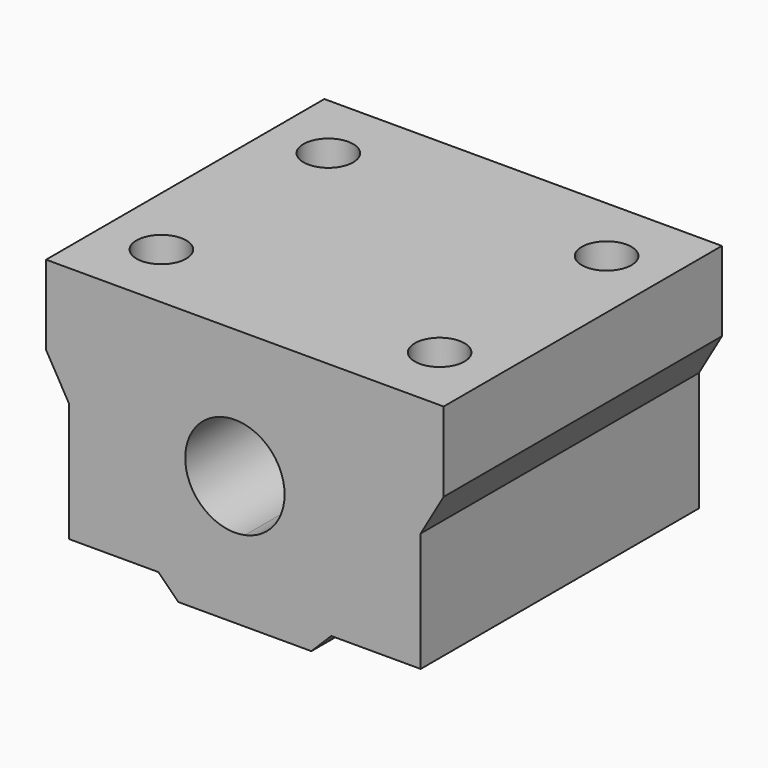
from build123d import *

# Parameters (mm, degrees)
F1_DEPTH = 35
F2_R     = 2.5
F3_DEPTH = 25.4


with BuildPart() as f1:
    # F0 (on Front) → F1 (new body)
    with BuildSketch(Plane.XZ):
        with BuildLine():
            Line((0, -13), (6.690599, -13))
            Line((6.690599, -13), (8.690599, -11))
            Line((8.690599, -11), (17.690599, -11))
            Line((17.690599, -11), (17.690599, 1))
            Line((17.690599, 1), (20, 5))
            Line((20, 5), (20, 13))
            Line((20, 13), (0, 13))
            Line((0, 13), (0, 4.898979))
            ThreePointArc((0, 4.898979), (2.872983, 3.162278), (4, 0))
            ThreePointArc((4, 0), (2.872983, -3.162278), (0, -4.898979))
            Line((0, -4.898979), (0, -13))
        make_face()
        with BuildLine():
            Line((-6.690599, -13), (0, -13))
            Line((0, -13), (0, -4.898979))
            ThreePointArc((0, -4.898979), (-6, 0), (0, 4.898979))
            Line((0, 4.898979), (0, 13))
            Line((0, 13), (-20, 13))
            Line((-20, 13), (-20, 5))
            Line((-20, 5), (-17.690599, 1))
            Line((-17.690599, 1), (-17.690599, -11))
            Line((-17.690599, -11), (-8.690599, -11))
            Line((-8.690599, -11), (-6.690599, -13))
        make_face()
    extrude(amount=F1_DEPTH)

    # F2 (on Top) → F3 (cut, symmetric)
    with BuildSketch(Plane.XY):
        with Locations((14, -28)):
            Circle(F2_R)
        with Locations((14, -7)):
            Circle(F2_R)
        with Locations((-14, -7)):
            Circle(F2_R)
        with Locations((-14, -28)):
            Circle(F2_R)
    extrude(amount=F3_DEPTH, both=True, mode=Mode.SUBTRACT)


solid = f1.part
